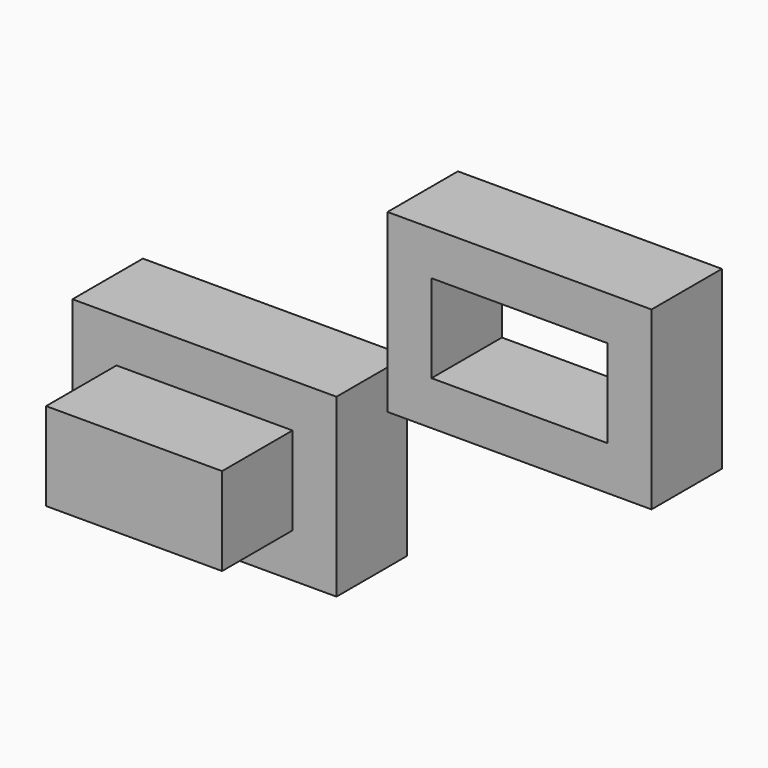
from build123d import *

# Parameters (mm, degrees)
F0_W     = 30
F0_H     = 20
F1_DEPTH = 10
F2_W     = 20
F2_H     = 10
F3_DEPTH = 10
F4_W     = 30
F4_H     = 20
F5_DEPTH = 10
F6_W     = 20
F6_H     = 10
F7_DEPTH = 10


with BuildPart() as f1:
    # F0 (on Front) → F1 (new body)
    with BuildSketch(Plane.XZ):
        with Locations((-5, -10.369213)):
            Rectangle(F0_W, F0_H)
    extrude(amount=F1_DEPTH)

    # F2 (on face) → F3 (join)
    with BuildSketch(Plane.XZ.offset(10)):
        with Locations((-5, -10.369213)):
            Rectangle(F2_W, F2_H)
    extrude(amount=F3_DEPTH)


with BuildPart() as f5:
    # F4 (on Front) → F5 (new body)
    with BuildSketch(Plane.XZ):
        with Locations((30.79485, 10)):
            Rectangle(F4_W, F4_H)
    extrude(amount=F5_DEPTH)

    # F6 (on face) → F7 (cut)
    with BuildSketch(Plane.XZ.offset(10)):
        with Locations((30.79485, 10)):
            Rectangle(F6_W, F6_H)
    extrude(amount=-F7_DEPTH, mode=Mode.SUBTRACT)


solid = Compound([f1.part, f5.part])
